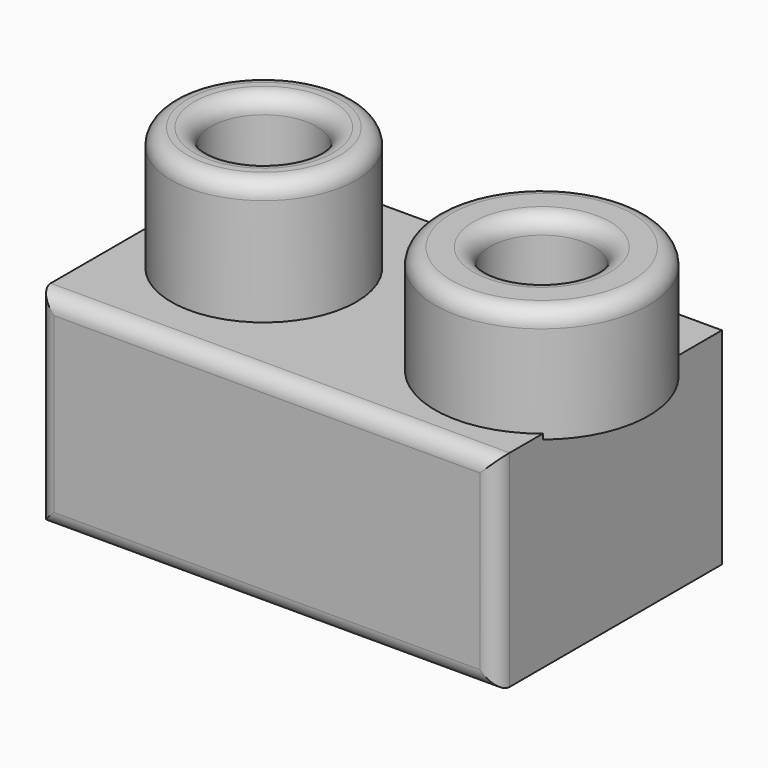
from build123d import *

# Parameters (mm, degrees)
F0_W     = 141.3882523775
F0_H     = 86.8192017078
F1_DEPTH = 63.5
F2_R     = 28.5124697473
F3_DEPTH = 38.1
F4_R     = 16.3077330844
F5_DEPTH = 38.1
F6_W     = 16.9572941959
F6_H     = 35.0840575993
F8_R     = 5.08


with BuildPart() as f1:
    # F0 (on Top) → F1 (new body)
    with BuildSketch(Plane.XY):
        Rectangle(F0_W, F0_H)
    extrude(amount=F1_DEPTH)

    # F2 (on face) → F3 (join)
    with BuildSketch(Plane.XY.offset(63.5)):
        with Locations((-35.713609308, 0)):
            Circle(F2_R)
    extrude(amount=F3_DEPTH)

    # F4 (on face) → F5 (cut, through all)
    with BuildSketch(Plane.XY.offset(101.6)):
        with Locations((-35.713609308, 0)):
            Circle(F4_R)
    extrude(amount=-F5_DEPTH, mode=Mode.SUBTRACT)

    # F6 (on Front) → F7 (revolve)
    with BuildSketch(Plane.XZ):
        with Locations((25.4693310708, 79.4370155782)):
            Rectangle(F6_W, F6_H)
    revolve(axis=Axis((49.9209612608, 0, 63.9768075198), (0, 0, -1)))

    # F8
    f8_edges = [f1.edges().sort_by_distance(p)[0] for p in [
        (82.851239, 0, 96.979044),
        (-64.226079, 0, 101.6),
        (65.893944, 0, 96.979044),
        (0, -43.409601, 63.5),
        (70.694126, -43.409601, 31.75),
        (-70.694126, -43.409601, 31.75),
        (0, -43.409601, 0),
        (-52.021342, 0, 101.6),
    ]]
    fillet(f8_edges, radius=F8_R)


solid = f1.part
